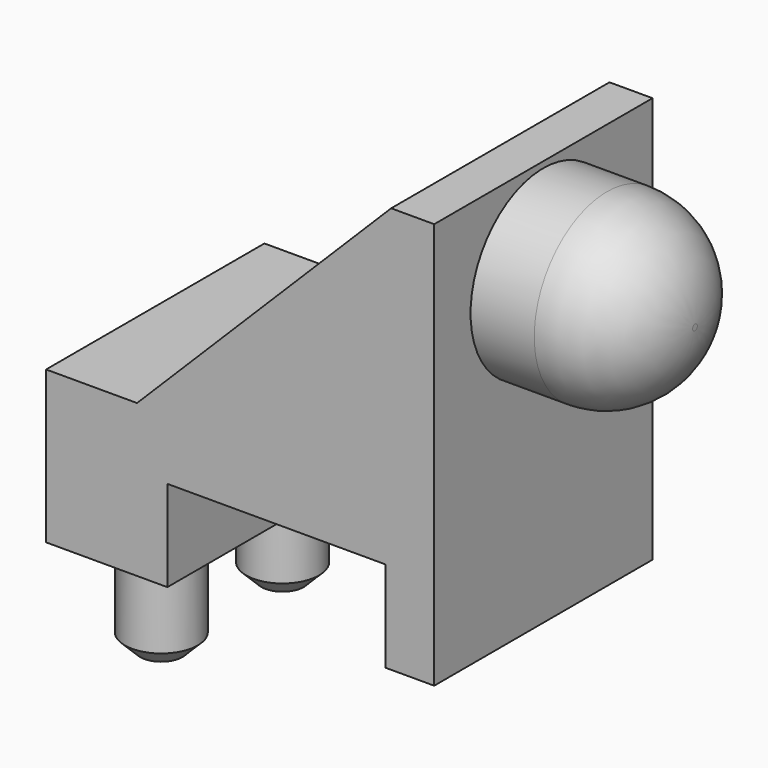
from build123d import *

# Parameters (mm, degrees)
PAD_DEPTH    = 2.25
SKETCH001_R  = 0.6
PAD001_DEPTH = 1.6
SKETCH002_R  = 1.5
PAD002_DEPTH = 2.5
FILLET_R     = 1.45
CHAMFER_SIZE = 0.25


with BuildPart() as part:
    # Sketch → Pad (new body, symmetric)
    with BuildSketch(Plane.XZ):
        Polygon((-6.4, 0), (-4.4, 0), (-4.4, 1.5), (-0.8, 1.5), (-0.8, 0), (0, 0), (0, 6.7), (-0.71, 6.7), (-4.9, 2.51), (-6.4, 2.51), align=None)
    extrude(amount=PAD_DEPTH, both=True)

    # Sketch001 → Pad001 (join)
    with BuildSketch(Plane(origin=(0, 0, 0), x_dir=(-1, 0, 0), z_dir=(0, 0, -1))):
        with Locations((5.3, 1.25)):
            Circle(SKETCH001_R)
        with Locations((5.3, -1.25)):
            Circle(SKETCH001_R)
    extrude(amount=PAD001_DEPTH)

    # Sketch002 → Pad002 (join)
    with BuildSketch(Plane.YZ):
        with Locations((0, 5.1)):
            Circle(SKETCH002_R)
    extrude(amount=PAD002_DEPTH)

    # Fillet
    fillet_edges = [part.edges().sort_by_distance(p)[0] for p in [
        (2.5, -1.5, 5.1),
    ]]
    fillet(fillet_edges, radius=FILLET_R)

    # Chamfer
    chamfer_edges = [part.edges().sort_by_distance(p)[0] for p in [
        (-4.7, 1.25, -1.6),
        (-4.7, -1.25, -1.6),
    ]]
    chamfer(chamfer_edges, length=CHAMFER_SIZE)


solid = part.part
